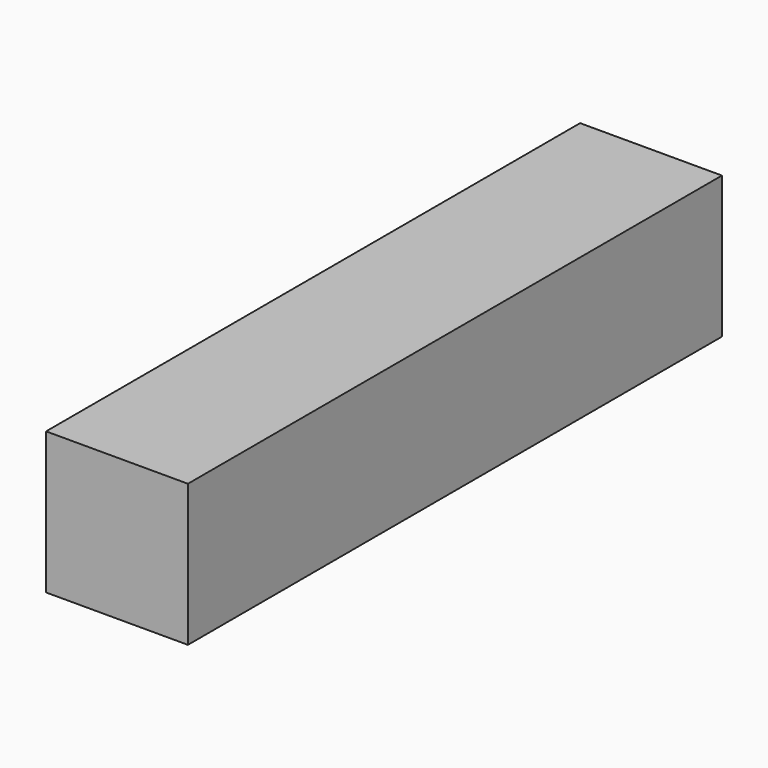
from build123d import *

# Parameters (mm, degrees)
SKETCH_W  = 17
SKETCH_H  = 80
PAD_DEPTH = 17


with BuildPart() as part:
    # Sketch → Pad (new body)
    with BuildSketch(Plane.XY):
        with Locations((8.5, 40)):
            Rectangle(SKETCH_W, SKETCH_H)
    extrude(amount=PAD_DEPTH)


solid = part.part
